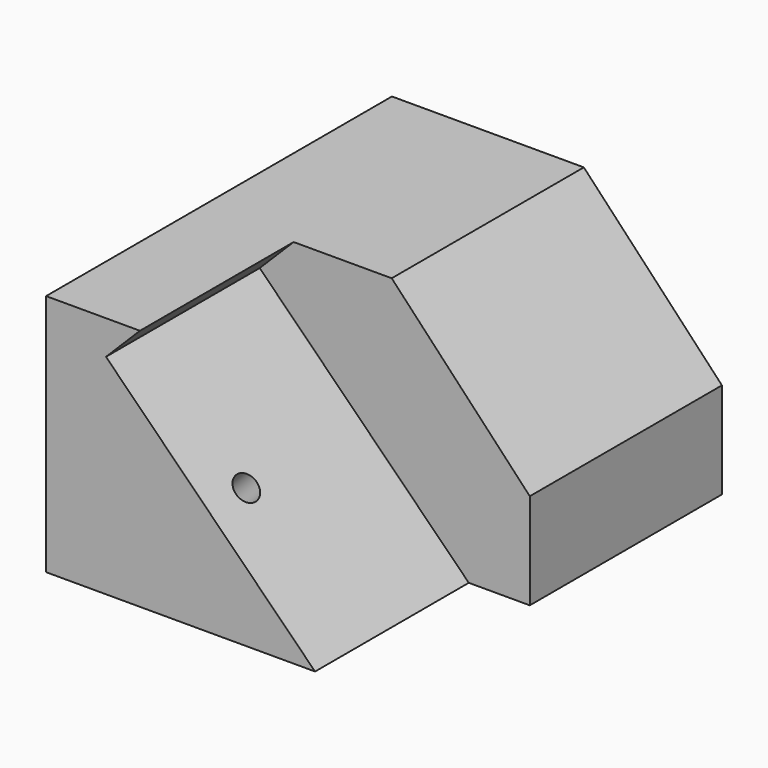
from build123d import *

# Parameters (mm, degrees)
F1_DEPTH = 20
F3_DEPTH = 25
F5_D     = 2.7


with BuildPart() as f1:
    # F0 (on Front) → F1 (new body)
    with BuildSketch(Plane.XZ):
        Polygon((-34.35, 0), (-6.35, 0), (-28.11456562, 21.76456562), (-24.579031714, 25.3000995259), (-34.35, 25.3000995259), align=None)
    extrude(amount=F1_DEPTH)

    # F2 (on face) → F3 (join)
    with BuildSketch(Plane.XZ):
        Polygon((-34.35, 25.3000995259), (-34.35, 0), (0, 0), (0, 10), (-14.3736449024, 25.3000995259), (-24.579031714, 25.3000995259), align=None)
    extrude(amount=-F3_DEPTH)

    # F5 (through all)
    with Locations(Plane(origin=(-3.175, 0, -3.175), x_dir=(0.7071067812, 0, -0.7071067812), z_dir=(0.7071067812, 0, 0.7071067812))):
        with Locations((-20.2698719395, -15)):
            Hole(F5_D / 2)


solid = f1.part
